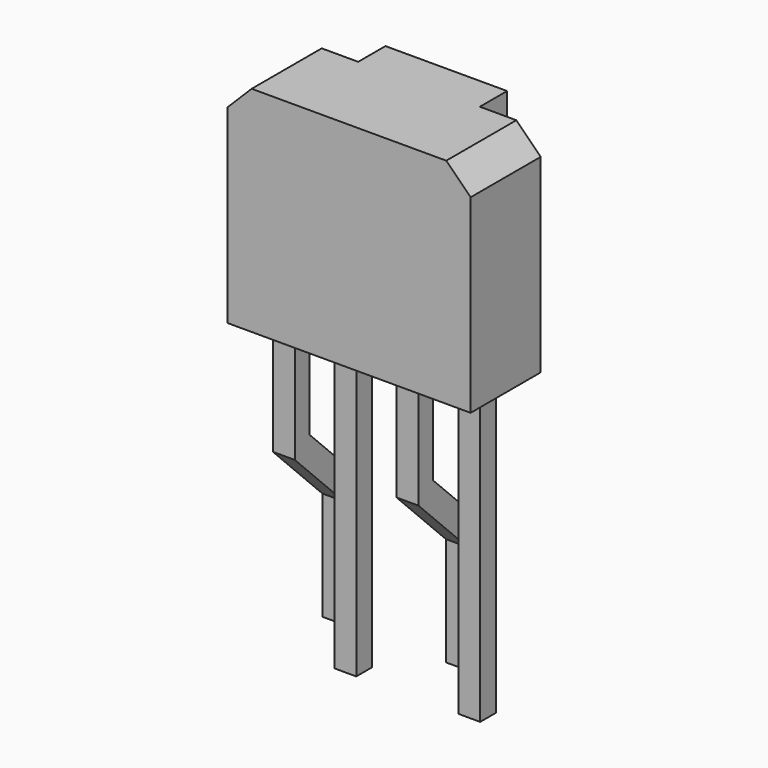
from build123d import *

# Parameters (mm, degrees)
SKETCH004_W    = 0.45
SKETCH004_H    = 0.4
PAD_DEPTH      = 3.8
PAD_DEPTH_BACK = 2.2
PAD003_DEPTH   = 0.225
PAD002_DEPTH   = 0.225
SKETCH_W       = 5
SKETCH_H       = 1.8
PAD004_DEPTH   = 4.4
CHAMFER_SIZE   = 0.5
SKETCH005_W    = 2.5
SKETCH005_H    = 4.4
PAD005_DEPTH   = 0.7


with BuildPart() as pad:
    # Sketch004 → Pad (new body, two sides)
    with BuildSketch(Plane.XY) as pad_sk:
        with Locations((1.27, -1.27)):
            Rectangle(SKETCH004_W, SKETCH004_H)
        with Locations((3.81, -1.261698)):
            Rectangle(SKETCH004_W, SKETCH004_H)
    extrude(amount=PAD_DEPTH)
    extrude(pad_sk.sketch, amount=-PAD_DEPTH_BACK)


with BuildPart() as pad003:
    # Sketch003 → Pad003 (new body, symmetric)
    with BuildSketch(Plane(origin=(2.54, -1.27, 0), x_dir=(0, 1, 0), z_dir=(1, 0, 0))):
        Polygon((-0.19, 3.8), (0.19, 3.8), (0.19, 1.6), (1.46, 0.33), (1.46, -2.2), (1.08, -2.2), (1.08, 0.03), (-0.19, 1.3), align=None)
    extrude(amount=PAD003_DEPTH, both=True)


with BuildPart() as pad002:
    # Sketch002 → Pad002 (new body, symmetric)
    with BuildSketch(Plane(origin=(0, -1.27, 0), x_dir=(0, 1, 0), z_dir=(1, 0, 0))):
        Polygon((-0.19, 3.8), (0.19, 3.8), (0.19, 1.6), (1.46, 0.33), (1.46, -2.2), (1.08, -2.2), (1.08, 0.03), (-0.19, 1.3), align=None)
    extrude(amount=PAD002_DEPTH, both=True)


with BuildPart() as sharp_is471f:
    # Sketch → Pad004 (new body)
    with BuildSketch(Plane.XY.offset(3.8)):
        with Locations((1.905, -1.27)):
            Rectangle(SKETCH_W, SKETCH_H)
    extrude(amount=PAD004_DEPTH)

    # Chamfer
    chamfer_edges = [sharp_is471f.edges().sort_by_distance(p)[0] for p in [
        (4.405, -1.27, 8.2),
        (-0.595, -1.27, 8.2),
    ]]
    chamfer(chamfer_edges, length=CHAMFER_SIZE)

    # Sketch005 → Pad005 (new body)
    with BuildSketch(Plane(origin=(0, -0.37, 3.8), x_dir=(-1, 0, 0), z_dir=(0, 1, 0))):
        with Locations((-1.905, 2.2)):
            Rectangle(SKETCH005_W, SKETCH005_H)
    extrude(amount=PAD005_DEPTH)

    add(pad.part)
    add(pad003.part)
    add(pad002.part)


solid = sharp_is471f.part
